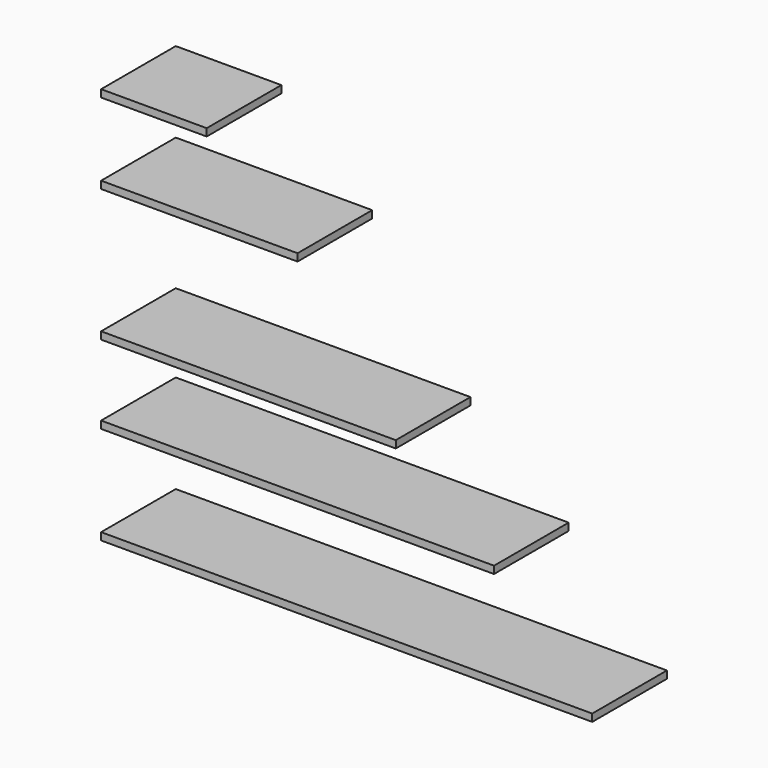
from build123d import *

# Parameters (mm, degrees)
F0_W      = 1270
F0_H      = 19.05
F1_DEPTH  = 241.3
F3_W      = 254
F3_H      = 19.05
F4_DEPTH  = 241.301
F6_W      = 254
F6_H      = 19.05
F7_DEPTH  = 241.301
F9_W      = 254
F9_H      = 19.05
F10_DEPTH = 241.301
F12_W     = 234.95
F12_H     = 19.05
F13_DEPTH = 241.301


with BuildPart() as f1:
    # F0 (on Front) → F1 (new body)
    with BuildSketch(Plane.XZ):
        Rectangle(F0_W, F0_H)
    extrude(amount=F1_DEPTH)


with BuildPart() as f2_1:
    # F2: copy of F1
    add(f1.part.moved(Location((0, 0, 254))))

    # F3 (on face) → F4 (cut, through all)
    with BuildSketch(Plane.XZ.offset(241.3)):
        with Locations((508, 254)):
            Rectangle(F3_W, F3_H)
    extrude(amount=-F4_DEPTH, mode=Mode.SUBTRACT)


with BuildPart() as f5_1:
    # F5: copy of F2_1
    add(f2_1.part.moved(Location((0, 0, 203.2))))

    # F6 (on face) → F7 (cut, through all)
    with BuildSketch(Plane.XZ.offset(241.3)):
        with Locations((254, 457.2)):
            Rectangle(F6_W, F6_H)
    extrude(amount=-F7_DEPTH, mode=Mode.SUBTRACT)


with BuildPart() as f8_1:
    # F8: copy of F5_1
    add(f5_1.part.moved(Location((0, 0, 342.9))))

    # F9 (on face) → F10 (cut, through all)
    with BuildSketch(Plane.XZ.offset(241.3)):
        with Locations((0, 800.1)):
            Rectangle(F9_W, F9_H)
    extrude(amount=-F10_DEPTH, mode=Mode.SUBTRACT)


with BuildPart() as f11_1:
    # F11: copy of F8_1
    add(f8_1.part.moved(Location((0, 0, 208.28))))

    # F12 (on face) → F13 (cut, through all)
    with BuildSketch(Plane.XZ.offset(241.3)):
        with Locations((-244.475, 1008.38)):
            Rectangle(F12_W, F12_H)
    extrude(amount=-F13_DEPTH, mode=Mode.SUBTRACT)


solid = Compound([f1.part, f2_1.part, f5_1.part, f8_1.part, f11_1.part])
